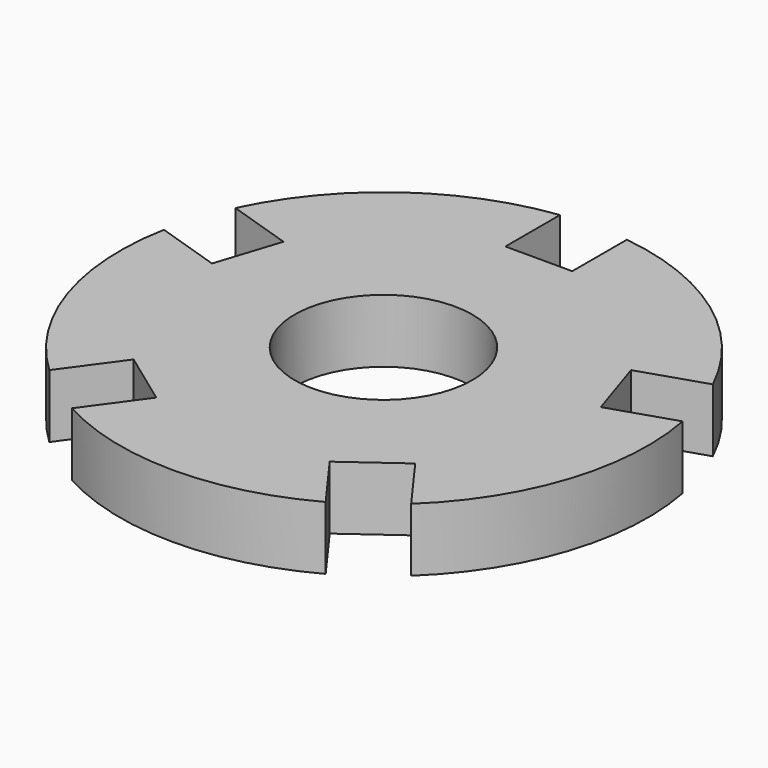
from build123d import *

# Parameters (mm, degrees)
F0_R     = 25.25
F1_DEPTH = 18


with BuildPart() as f1:
    # F0 (on Top) → F1 (new body)
    with BuildSketch(Plane.XY):
        with BuildLine():
            Line((-9.5, 55), (-9.5, 74.3959))
            ThreePointArc((-9.5, 74.3959), (-44.083894, 60.676275), (-67.819044, 32.024634))
            Line((-67.819044, 32.024634), (-49.372447, 26.030972))
            Line((-49.372447, 26.030972), (-55.24377, 7.960898))
            Line((-55.24377, 7.960898), (-73.690367, 13.954561))
            ThreePointArc((-73.690367, 13.954561), (-71.329239, -23.176275), (-51.414475, -54.603588))
            Line((-51.414475, -54.603588), (-40.01385, -38.911975))
            Line((-40.01385, -38.911975), (-24.642527, -50.079895))
            Line((-24.642527, -50.079895), (-36.043152, -65.771508))
            ThreePointArc((-36.043152, -65.771508), (0, -75), (36.043152, -65.771508))
            Line((36.043152, -65.771508), (24.642527, -50.079895))
            Line((24.642527, -50.079895), (40.01385, -38.911975))
            Line((40.01385, -38.911975), (51.414475, -54.603588))
            ThreePointArc((51.414475, -54.603588), (71.329239, -23.176275), (73.690367, 13.954561))
            Line((73.690367, 13.954561), (55.24377, 7.960898))
            Line((55.24377, 7.960898), (49.372447, 26.030972))
            Line((49.372447, 26.030972), (67.819044, 32.024634))
            ThreePointArc((67.819044, 32.024634), (44.083894, 60.676275), (9.5, 74.3959))
            Line((9.5, 74.3959), (9.5, 55))
            Line((9.5, 55), (-9.5, 55))
        make_face()
        with Locations((-0.347831, 0.255336)):
            Circle(F0_R, mode=Mode.SUBTRACT)
    extrude(amount=F1_DEPTH)


solid = f1.part
